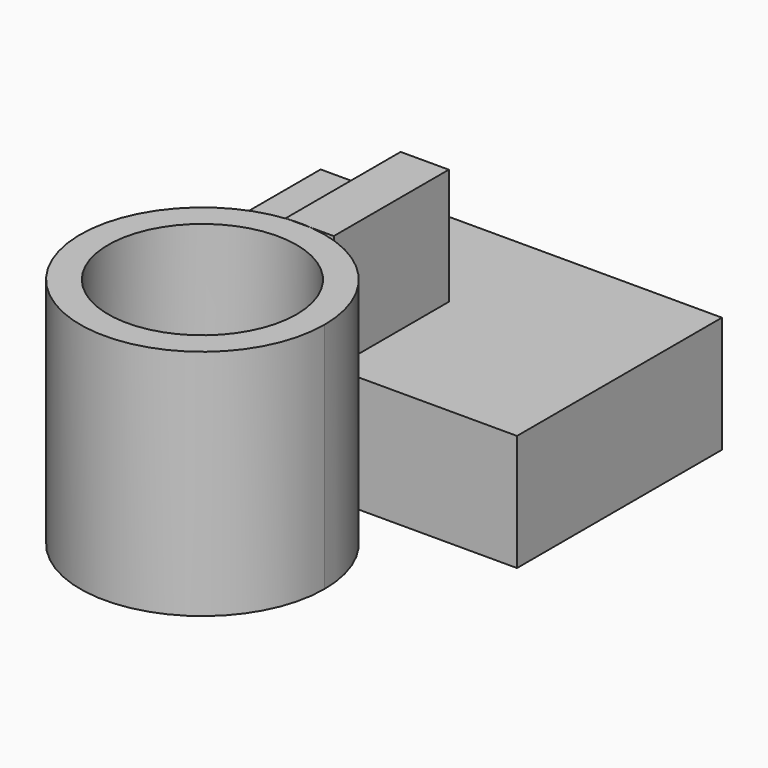
from build123d import *

# Parameters (mm, degrees)
F0_R     = 20.561571
F1_DEPTH = 50.8
F2_DEPTH = 25.4


with BuildPart() as f1:
    # F0 (on Top) → F1 (new body)
    with BuildSketch(Plane.XY):
        with BuildLine():
            Line((2.553322, 0), (-2.553322, 0))
            ThreePointArc((-2.553322, 0), (-17.926626, -46.27249), (26.660862, -26.538314))
            ThreePointArc((26.660862, -26.538314), (19.734175, -8.611689), (2.553322, 0))
        make_face()
        with Locations((0, -26.538314)):
            Circle(F0_R, mode=Mode.SUBTRACT)
        with BuildLine():
            Line((-3.066077, 31.390786), (-3.066077, 0))
            Line((-3.066077, 0), (-2.553322, 0))
            ThreePointArc((-2.553322, 0), (0, 0.122548), (2.553322, 0))
            Line((2.553322, 0), (7.446187, 0))
            Line((7.446187, 0), (7.446187, 31.390786))
            Line((7.446187, 31.390786), (-3.066077, 31.390786))
        make_face()
    extrude(amount=F1_DEPTH)

    # F0 (on Top) → F2 (join)
    with BuildSketch(Plane.XY):
        Polygon((47.451187, 55.919398), (-40.151004, 55.919398), (-40.151004, 0), (-3.066077, 0), (-3.066077, 31.390786), (7.446187, 31.390786), (7.446187, 0), (47.451187, 0), align=None)
    extrude(amount=F2_DEPTH)


solid = f1.part
